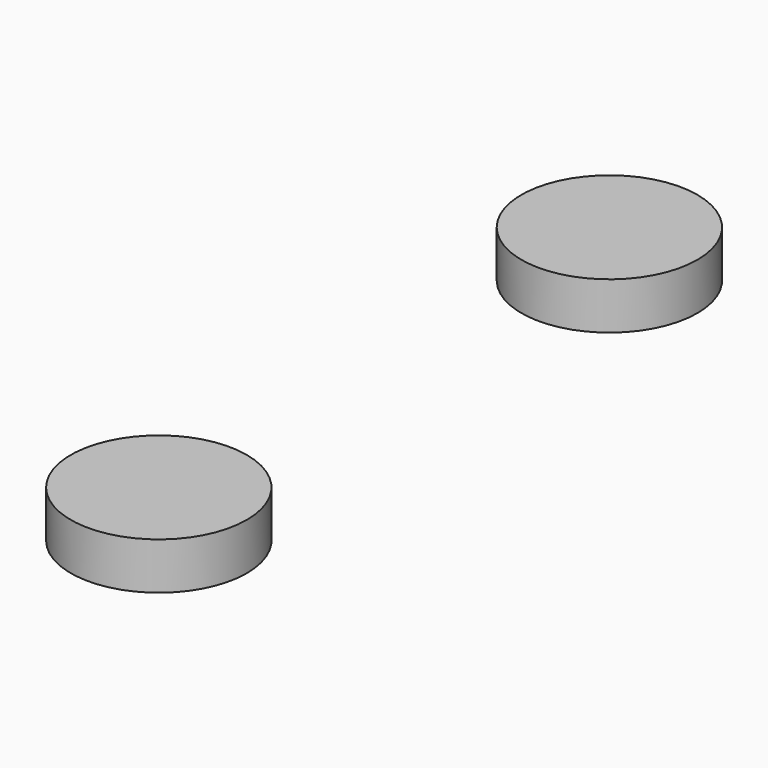
from build123d import *

# Parameters (mm, degrees)
CYLINDER_R        = 3.75
CYLINDER_DEPTH    = 2
CYLINDER001_R     = 3.75
CYLINDER001_DEPTH = 2


with BuildPart() as cylinder:
    # Cylinder → Cylinder (new body)
    with BuildSketch(Plane(origin=(0, -12, 2), x_dir=(1, 0, 0), z_dir=(0, 0, 1))):
        Circle(CYLINDER_R)
    extrude(amount=CYLINDER_DEPTH)


with BuildPart() as outer:
    # Cylinder001 → Cylinder001 (new body)
    with BuildSketch(Plane(origin=(0, 12, 2), x_dir=(1, 0, 0), z_dir=(0, 0, 1))):
        Circle(CYLINDER001_R)
    extrude(amount=CYLINDER001_DEPTH)

    # Fusion007: union Cylinder
    add(cylinder.part)


solid = outer.part
